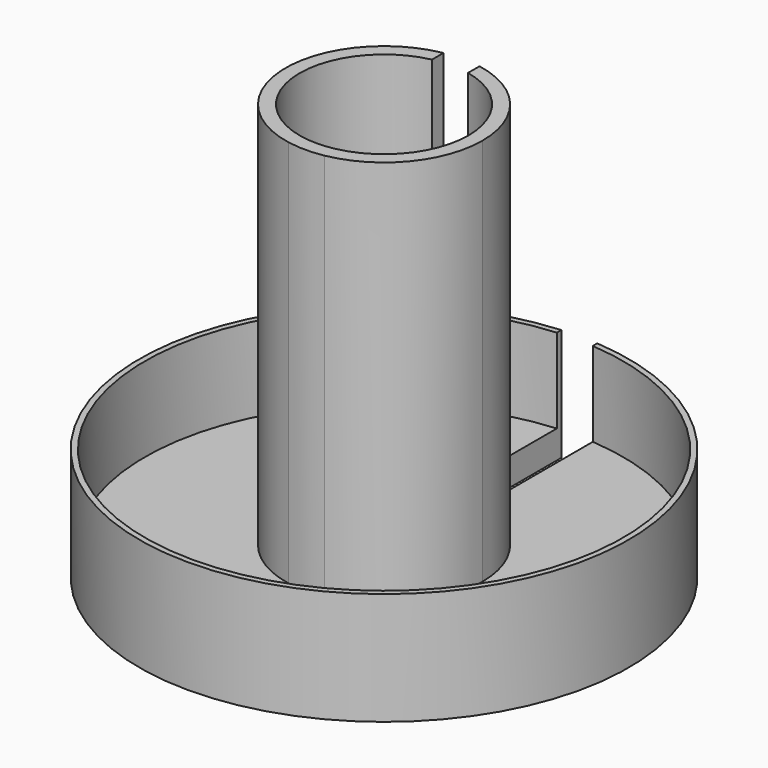
from build123d import *

# Parameters (mm, degrees)
F1_DEPTH = 25.4
F2_DEPTH = 6.35
F3_DEPTH = 93.98


with BuildPart() as f1:
    # F0 (on Top) → F1 (new body)
    with BuildSketch(Plane.XY):
        with BuildLine():
            ThreePointArc((-1.1352293447, 35.2420264333), (34.3776264235, 18.1213738464), (48.7757706553, -18.579758459))
            ThreePointArc((48.7757706553, -18.579758459), (-41.9003616501, -58.1566142273), (-9.2632293447, 35.2420264333))
            Line((-9.2632293447, 35.2420264333), (-9.2632293447, 36.515558302))
            ThreePointArc((-9.2632293447, 36.515558302), (-42.7990587659, -59.0552183391), (50.0457706553, -18.579758459))
            ThreePointArc((50.0457706553, -18.579758459), (35.2762305353, 19.0200709621), (-1.1352293447, 36.515558302))
            Line((-1.1352293447, 36.515558302), (-1.1352293447, 35.2420264333))
        make_face()
    extrude(amount=F1_DEPTH)

    # F0 (on Top) → F2 (join)
    with BuildSketch(Plane.XY):
        with BuildLine():
            ThreePointArc((-9.2632293447, 35.2420264333), (-41.9003616501, -58.1566142273), (48.7757706553, -18.579758459))
            ThreePointArc((48.7757706553, -18.579758459), (34.3776264235, 18.1213738464), (-1.1352293447, 35.2420264333))
            Line((-1.1352293447, 35.2420264333), (-1.1352293447, 3.2705168024))
            ThreePointArc((-1.1352293447, 3.2705168024), (11.8927720741, -4.3736290601), (17.0257706553, -18.579758459))
            ThreePointArc((17.0257706553, -18.579758459), (11.8927720741, -32.785887858), (-1.1352293447, -40.4300337205))
            Line((-1.1352293447, -40.4300337205), (-1.1352293447, -67.4839898818))
            Line((-1.1352293447, -67.4839898818), (-9.2632293447, -67.4839898818))
            Line((-9.2632293447, -67.4839898818), (-9.2632293447, -40.4300337205))
            ThreePointArc((-9.2632293447, -40.4300337205), (-27.4242293447, -18.579758459), (-9.2632293447, 3.2705168024))
            Line((-9.2632293447, 3.2705168024), (-9.2632293447, 35.2420264333))
        make_face()
        with BuildLine():
            ThreePointArc((17.0257706553, -18.579758459), (11.8927720741, -4.3736290601), (-1.1352293447, 3.2705168024))
            Line((-1.1352293447, 3.2705168024), (-1.1352293447, 0.0317004843))
            ThreePointArc((-1.1352293447, 0.0317004843), (9.6385888911, -6.6323047554), (13.8507706553, -18.579758459))
            ThreePointArc((13.8507706553, -18.579758459), (9.6385888911, -30.5272121626), (-1.1352293447, -37.1912174024))
            Line((-1.1352293447, -37.1912174024), (-1.1352293447, -40.4300337205))
            ThreePointArc((-1.1352293447, -40.4300337205), (11.8927720741, -32.785887858), (17.0257706553, -18.579758459))
        make_face()
        with BuildLine():
            Line((-9.2632293447, -37.1912174024), (-9.2632293447, -40.4300337205))
            ThreePointArc((-9.2632293447, -40.4300337205), (-5.1992293447, -40.804758459), (-1.1352293447, -40.4300337205))
            Line((-1.1352293447, -40.4300337205), (-1.1352293447, -37.1912174024))
            ThreePointArc((-1.1352293447, -37.1912174024), (-5.1992293447, -37.629758459), (-9.2632293447, -37.1912174024))
        make_face()
        with BuildLine():
            Line((-9.2632293447, 0.0317004843), (-9.2632293447, 3.2705168024))
            ThreePointArc((-9.2632293447, 3.2705168024), (-27.4242293447, -18.579758459), (-9.2632293447, -40.4300337205))
            Line((-9.2632293447, -40.4300337205), (-9.2632293447, -37.1912174024))
            ThreePointArc((-9.2632293447, -37.1912174024), (-24.2492293447, -18.579758459), (-9.2632293447, 0.0317004843))
        make_face()
        with BuildLine():
            ThreePointArc((-1.1352293447, -40.4300337205), (-5.1992293447, -40.804758459), (-9.2632293447, -40.4300337205))
            Line((-9.2632293447, -40.4300337205), (-9.2632293447, -67.4839898818))
            Line((-9.2632293447, -67.4839898818), (-1.1352293447, -67.4839898818))
            Line((-1.1352293447, -67.4839898818), (-1.1352293447, -40.4300337205))
        make_face()
    extrude(amount=F2_DEPTH)

    # F0 (on Top) → F3 (join)
    with BuildSketch(Plane.XY):
        with BuildLine():
            ThreePointArc((17.0257706553, -18.579758459), (11.8927720741, -4.3736290601), (-1.1352293447, 3.2705168024))
            Line((-1.1352293447, 3.2705168024), (-1.1352293447, 0.0317004843))
            ThreePointArc((-1.1352293447, 0.0317004843), (9.6385888911, -6.6323047554), (13.8507706553, -18.579758459))
            ThreePointArc((13.8507706553, -18.579758459), (9.6385888911, -30.5272121626), (-1.1352293447, -37.1912174024))
            Line((-1.1352293447, -37.1912174024), (-1.1352293447, -40.4300337205))
            ThreePointArc((-1.1352293447, -40.4300337205), (11.8927720741, -32.785887858), (17.0257706553, -18.579758459))
        make_face()
        with BuildLine():
            Line((-9.2632293447, -37.1912174024), (-9.2632293447, -40.4300337205))
            ThreePointArc((-9.2632293447, -40.4300337205), (-5.1992293447, -40.804758459), (-1.1352293447, -40.4300337205))
            Line((-1.1352293447, -40.4300337205), (-1.1352293447, -37.1912174024))
            ThreePointArc((-1.1352293447, -37.1912174024), (-5.1992293447, -37.629758459), (-9.2632293447, -37.1912174024))
        make_face()
        with BuildLine():
            Line((-9.2632293447, 0.0317004843), (-9.2632293447, 3.2705168024))
            ThreePointArc((-9.2632293447, 3.2705168024), (-27.4242293447, -18.579758459), (-9.2632293447, -40.4300337205))
            Line((-9.2632293447, -40.4300337205), (-9.2632293447, -37.1912174024))
            ThreePointArc((-9.2632293447, -37.1912174024), (-24.2492293447, -18.579758459), (-9.2632293447, 0.0317004843))
        make_face()
    extrude(amount=F3_DEPTH)


solid = f1.part
